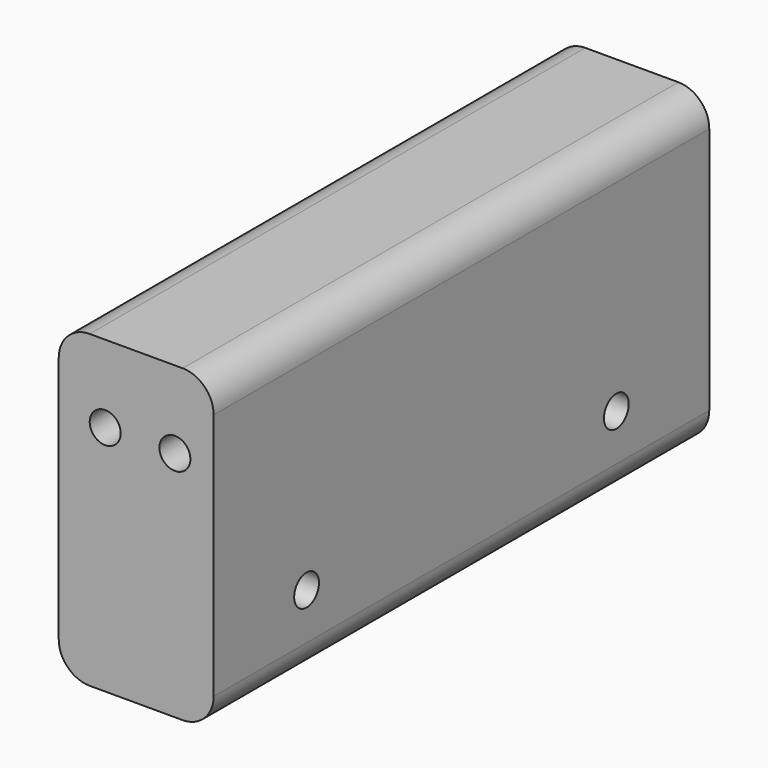
from build123d import *

# Parameters (mm, degrees)
CYLINDER054_R       = 2
CYLINDER054_DEPTH   = 100
ARRAY001031_Y_COUNT = 2
ARRAY001031_Y_PITCH = 50
CYLINDER052_R       = 2
CYLINDER052_DEPTH   = 100
ARRAY001030_X_COUNT = 2
ARRAY001030_X_PITCH = 9
BOX029_W            = 20
BOX029_H            = 80
BOX029_DEPTH        = 40
FILLET001_R         = 4


with BuildPart() as horizontal_hole_array005:
    # Cylinder054 → Cylinder054 (new body)
    with BuildSketch(Plane(origin=(-50, 15, -10), x_dir=(0, 0, -1), z_dir=(1, 0, 0))):
        Circle(CYLINDER054_R)
    extrude(amount=CYLINDER054_DEPTH)

    # Array001031 Y: horizontal hole array005 ×2


with BuildPart() as horizontal_hole_array005_1:
    add(horizontal_hole_array005.part)
    with Locations(*[(0, i * ARRAY001031_Y_PITCH, 0) for i in range(1, ARRAY001031_Y_COUNT)]):
        add(horizontal_hole_array005.part)


with BuildPart() as stand_attachment_hole_fusion002:
    # Cylinder052 → Cylinder052 (new body)
    with BuildSketch(Plane(origin=(0, -10, 10), x_dir=(1, 0, 0), z_dir=(0, 1, 0))):
        Circle(CYLINDER052_R)
    extrude(amount=CYLINDER052_DEPTH)

    # Array001030 X: stand attachment hole fusion002 ×2


with BuildPart() as stand_attachment_hole_fusion002_1:
    add(stand_attachment_hole_fusion002.part)
    with Locations(*[(i * ARRAY001030_X_PITCH, 0, 0) for i in range(1, ARRAY001030_X_COUNT)]):
        add(stand_attachment_hole_fusion002.part)

    # Fusion025: union horizontal hole array005
    add(horizontal_hole_array005_1.part)


with BuildPart() as stand_attachment_middle_fillet001:
    # Box029 → Box029 (new body)
    with BuildSketch(Plane(origin=(-6, 0, -20), x_dir=(1, 0, 0), z_dir=(0, 0, 1))):
        with Locations((10, 40)):
            Rectangle(BOX029_W, BOX029_H)
    extrude(amount=BOX029_DEPTH)

    # Cut019004: cut stand attachment hole fusion002
    add(stand_attachment_hole_fusion002_1.part, mode=Mode.SUBTRACT)


with BuildPart() as stand_attachment_middle_fillet001_1:
    # Cut019004 placement: moved
    add(stand_attachment_middle_fillet001.part.moved(Location((-94, 0, -91))))

    # Fillet001
    fillet001_edges = [stand_attachment_middle_fillet001_1.edges().sort_by_distance(p)[0] for p in [
        (-100, 40, -71),
        (-100, 40, -111),
        (-80, 40, -71),
        (-80, 40, -111),
    ]]
    fillet(fillet001_edges, radius=FILLET001_R)


solid = stand_attachment_middle_fillet001_1.part
